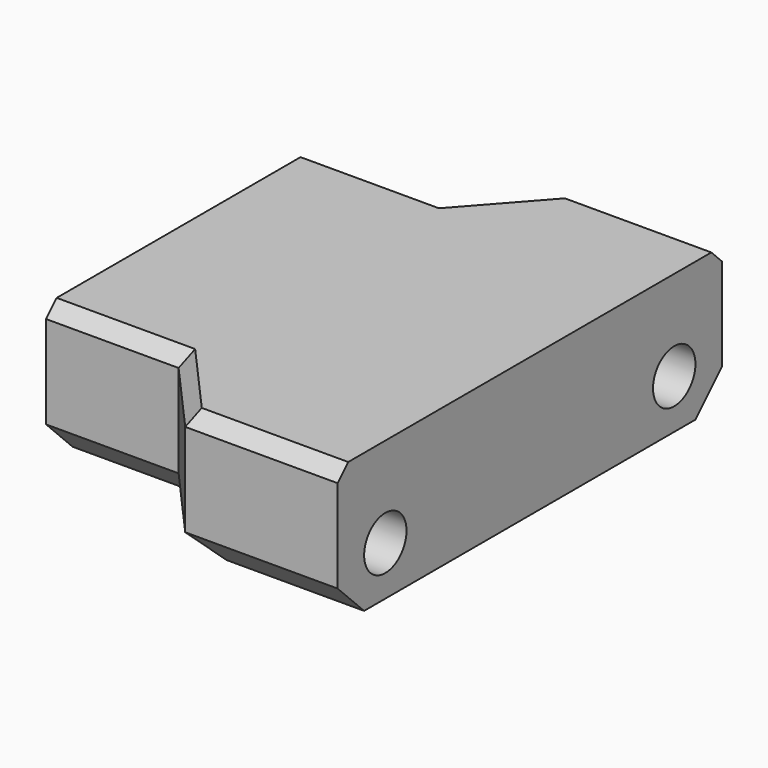
from build123d import *

# Parameters (mm, degrees)
PAD013_DEPTH    = 10.5
SKETCH042_R     = 2
POCKET028_DEPTH = 7
CHAMFER019_SIZE = 1
CHAMFER020_SIZE = 2.5


with BuildPart() as part:
    # Sketch041 → Pad013 (new body)
    with BuildSketch(Plane.XY):
        Polygon((26.5, 18.125), (26.5, -18.125), (15, -18.125), (10, -12.5), (0, -12.5), (0, 12.5), (10, 12.5), (15, 18.125), align=None)
    extrude(amount=PAD013_DEPTH)

    # Sketch042 (on Face3 of Pad013) → Pocket028 (cut)
    with BuildSketch(Plane.YZ.offset(26.5)):
        with Locations((-13.625, 3.7)):
            Circle(SKETCH042_R)
        with Locations((13.625, 3.7)):
            Circle(SKETCH042_R)
    extrude(amount=-POCKET028_DEPTH, mode=Mode.SUBTRACT)

    # Chamfer019
    chamfer019_edges = [part.edges().sort_by_distance(p)[0] for p in [
        (20.75, -18.125, 10.5),
        (12.5, -15.3125, 10.5),
        (5, -12.5, 10.5),
        (5, 12.5, 10.5),
        (12.5, 15.3125, 10.5),
        (20.75, 18.125, 10.5),
    ]]
    chamfer(chamfer019_edges, length=CHAMFER019_SIZE)

    # Chamfer020
    chamfer020_edges = [part.edges().sort_by_distance(p)[0] for p in [
        (5, -12.5, 0),
        (12.5, -15.3125, 0),
        (20.75, -18.125, 0),
        (5, 12.5, 0),
        (12.5, 15.3125, 0),
        (20.75, 18.125, 0),
    ]]
    chamfer(chamfer020_edges, length=CHAMFER020_SIZE)


with BuildPart() as part_1:
    # Body004007 placement: moved
    add(part.part.moved(Location((25.3, -7, 6.5))))


solid = part_1.part
